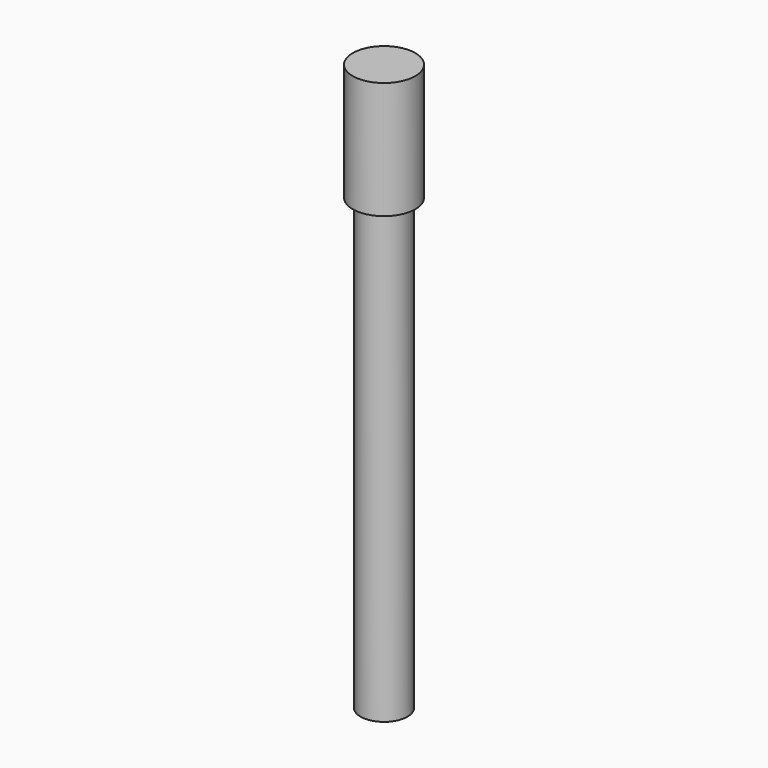
from build123d import *

# Parameters (mm, degrees)
F0_W   = 2
F0_H   = 30
F0_W_2 = 6
F0_H_2 = 114.9944987893


with BuildPart() as f1:
    # F0 (on Front) → F1 (revolve)
    with BuildSketch(Plane.XZ):
        with Locations((7, 57.4944987893)):
            Rectangle(F0_W, F0_H)
        with Locations((3, 57.4944987893)):
            Rectangle(F0_W_2, F0_H)
        with Locations((3, -15.0027506053)):
            Rectangle(F0_W_2, F0_H_2)
    revolve(axis=Axis((0, 0, -0.0027506053), (0, 0, -1)))


solid = f1.part
